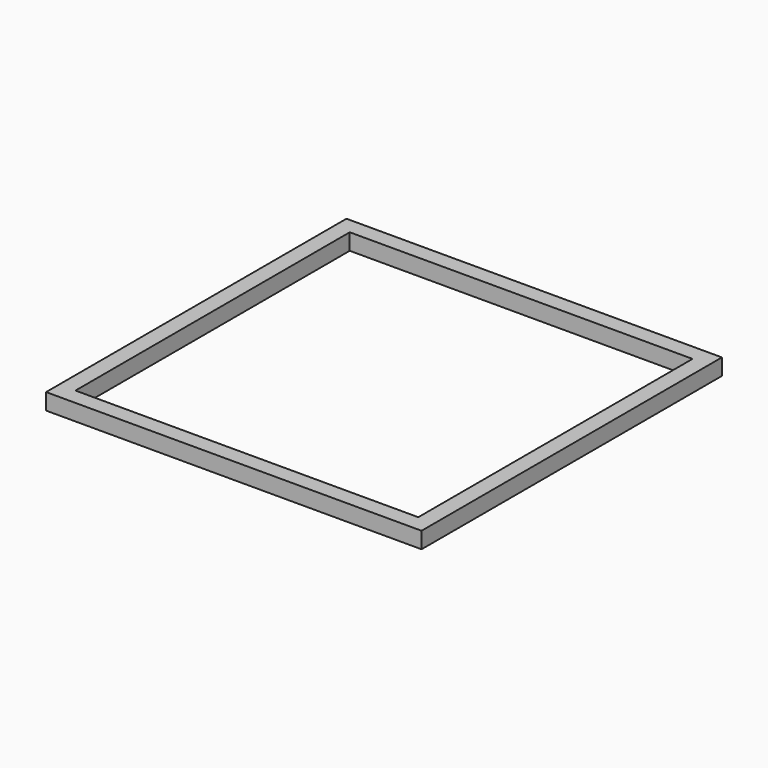
from build123d import *

# Parameters (mm, degrees)
F0_W     = 584.2
F0_H     = 584.2
F0_W_2   = 533.4
F0_H_2   = 533.4
F1_DEPTH = 25.4


with BuildPart() as f1:
    # F0 (on Top) → F1 (new body)
    with BuildSketch(Plane.XY):
        Rectangle(F0_W, F0_H)
        Rectangle(F0_W_2, F0_H_2, mode=Mode.SUBTRACT)
        Rectangle(F0_W, F0_H)
        Rectangle(F0_W_2, F0_H_2, mode=Mode.SUBTRACT)
    extrude(amount=F1_DEPTH)


solid = f1.part
